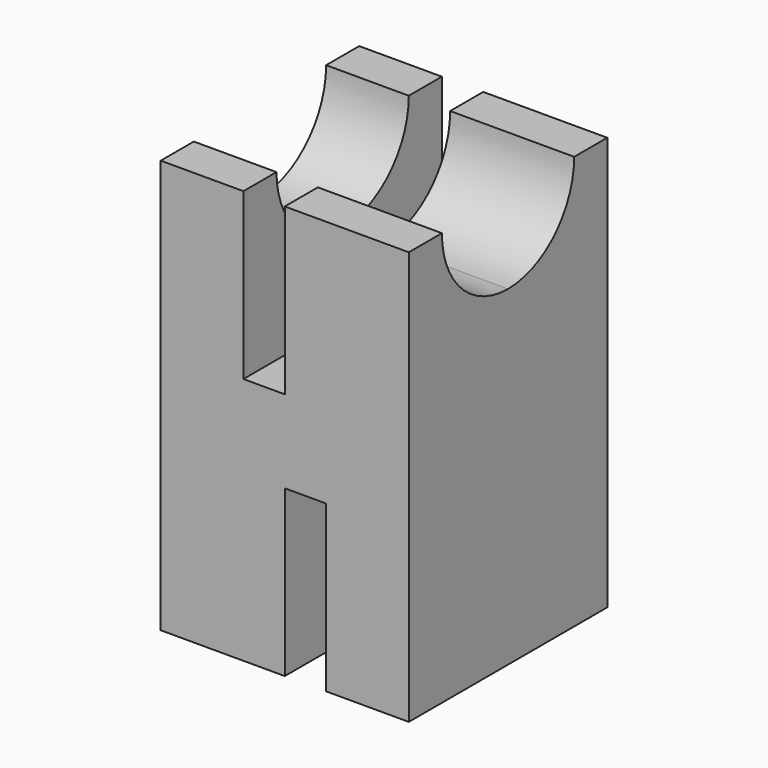
from build123d import *

# Parameters (mm, degrees)
F1_DEPTH = 60
F3_DEPTH = 60


with BuildPart() as f1:
    # F0 (on Front) → F1 (new body)
    with BuildSketch(Plane.XZ):
        Polygon((-40, 82.621163), (-60, 82.621163), (-60, -17.378837), (-30, -17.378837), (-30, 22.621163), (-20, 22.621163), (-20, -17.378837), (0, -17.378837), (0, 82.621163), (-30, 82.621163), (-30, 42.621163), (-40, 42.621163), align=None)
    extrude(amount=F1_DEPTH)

    # F2 (on face) → F3 (cut)
    with BuildSketch(Plane.YZ):
        with BuildLine():
            Line((-10, 82.621163), (-50, 82.621163))
            ThreePointArc((-50, 82.621163), (-44.142136, 68.479028), (-30, 62.621163))
            ThreePointArc((-30, 62.621163), (-15.857864, 68.479028), (-10, 82.621163))
        make_face()
    extrude(amount=-F3_DEPTH, mode=Mode.SUBTRACT)


solid = f1.part
